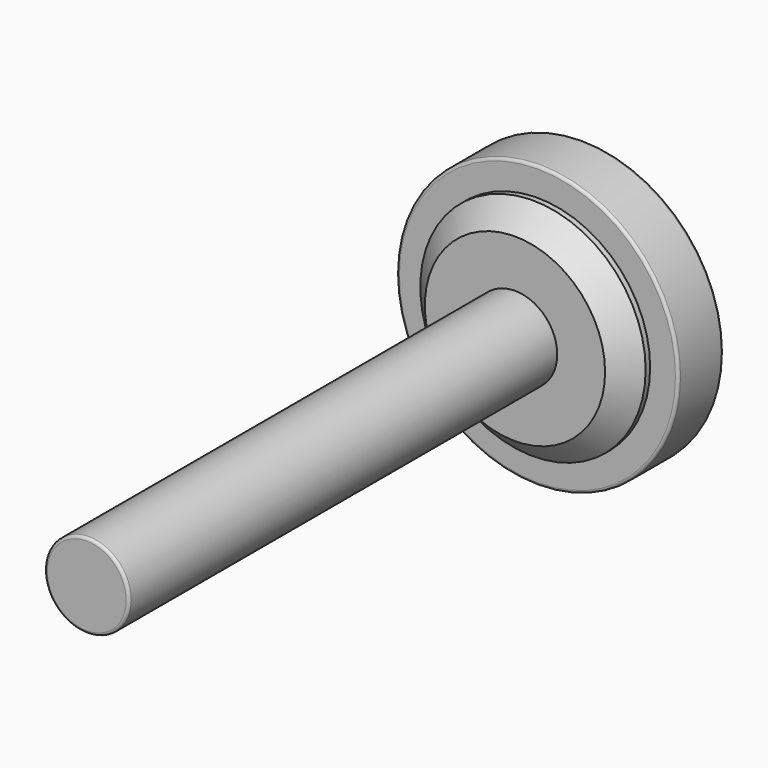
from build123d import *

# Parameters (mm, degrees)
F0_W     = 25
F0_H     = 10
F3_D     = 25.1
F3_DEPTH = 200
F3_TIP   = 7.5408007688
F4_R     = 1
F5_SIZE  = 8
F6_R     = 1


with BuildPart() as f1:
    # F0 (on Top) → F1 (revolve)
    with BuildSketch(Plane.XY):
        with Locations((27.5, 62.9193106468)):
            Rectangle(F0_W, F0_H)
        Polygon((0, 87.9193106468), (0, -132.0806893532), (15, -132.0806893532), (15, 57.9193106468), (15, 67.9193106468), (40, 67.9193106468), (50, 67.9193106468), (50, 87.9193106468), align=None)
    revolve(axis=Axis((0, -22.0806893532, 0), (0, -1, 0)))

    # F3
    with Locations(Plane(origin=(0, 87.9193106468, 0), x_dir=(-1, 0, 0), z_dir=(0, 1, 0))):
        with Locations((0, 0)):
            Hole(F3_D / 2, depth=F3_DEPTH)
            with Locations((0, 0, -(F3_DEPTH + F3_TIP / 2))):  # 118° drill point
                Cone(0, F3_D / 2, F3_TIP, mode=Mode.SUBTRACT)

    # F4
    f4_edges = [f1.edges().sort_by_distance(p)[0] for p in [
        (-50, 87.919311, 0),
        (-15, -132.080689, 0),
    ]]
    fillet(f4_edges, radius=F4_R)

    # F5
    f5_edges = [f1.edges().sort_by_distance(p)[0] for p in [
        (-40, 57.919311, 0),
    ]]
    chamfer(f5_edges, length=F5_SIZE)

    # F6
    f6_edges = [f1.edges().sort_by_distance(p)[0] for p in [
        (-50, 67.919311, 0),
    ]]
    fillet(f6_edges, radius=F6_R)


solid = f1.part
